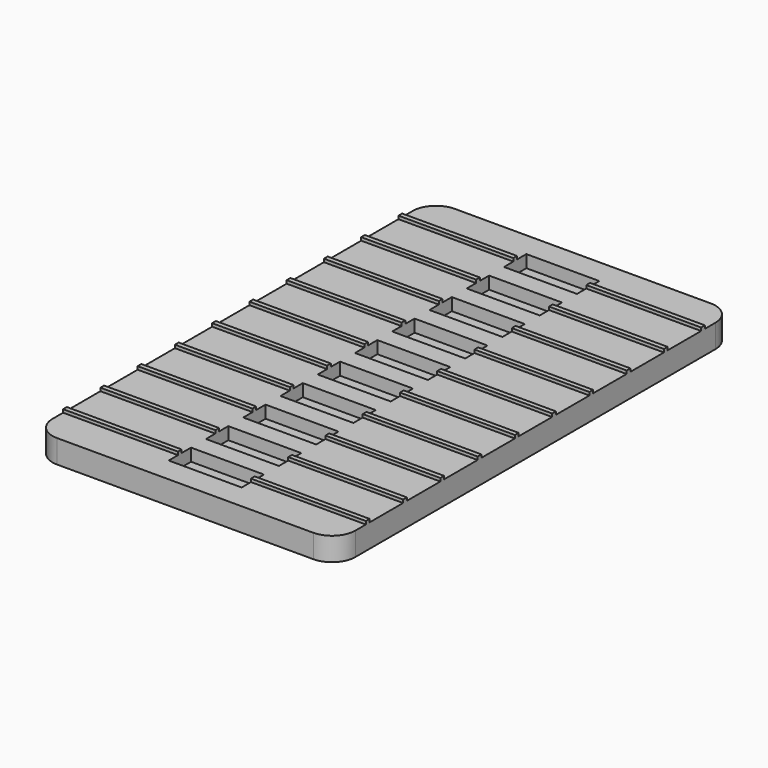
from build123d import *

# Parameters (mm, degrees)
F0_W     = 49.53
F0_H     = 81.28
F1_DEPTH = 3.81
F2_W     = 11.938
F2_H     = 4.572
F3_DEPTH = 2.032
F4_W     = 18.796
F4_H     = 0.762
F5_DEPTH = 0.508
F6_R     = 3.81


with BuildPart() as f1:
    # F0 (on Top) → F1 (new body)
    with BuildSketch(Plane.XY):
        with Locations((24.765, 40.64)):
            Rectangle(F0_W, F0_H)
    extrude(amount=F1_DEPTH)

    # F2 (on face) → F3 (cut)
    with BuildSketch(Plane.XY.offset(3.81)):
        with Locations((24.765, 6.35)):
            Rectangle(F2_W, F2_H)
        with Locations((24.765, 13.97)):
            Rectangle(F2_W, F2_H)
        with Locations((24.765, 21.59)):
            Rectangle(F2_W, F2_H)
        with Locations((24.765, 29.21)):
            Rectangle(F2_W, F2_H)
        with Locations((24.765, 36.83)):
            Rectangle(F2_W, F2_H)
        with Locations((24.765, 44.45)):
            Rectangle(F2_W, F2_H)
        with Locations((24.765, 52.07)):
            Rectangle(F2_W, F2_H)
        with Locations((24.765, 59.69)):
            Rectangle(F2_W, F2_H)
        with Locations((24.765, 67.31)):
            Rectangle(F2_W, F2_H)
        with Locations((24.765, 74.93)):
            Rectangle(F2_W, F2_H)
    extrude(amount=-F3_DEPTH, mode=Mode.SUBTRACT)

    # F4 (on face) → F5 (join)
    with BuildSketch(Plane.XY.offset(3.81)):
        with Locations((40.132, 6.35)):
            Rectangle(F4_W, F4_H)
        with Locations((9.398, 6.35)):
            Rectangle(F4_W, F4_H)
        with Locations((9.398, 13.97)):
            Rectangle(F4_W, F4_H)
        with Locations((40.132, 13.97)):
            Rectangle(F4_W, F4_H)
        with Locations((9.398, 21.59)):
            Rectangle(F4_W, F4_H)
        with Locations((40.132, 21.59)):
            Rectangle(F4_W, F4_H)
        with Locations((9.398, 29.21)):
            Rectangle(F4_W, F4_H)
        with Locations((40.132, 29.21)):
            Rectangle(F4_W, F4_H)
        with Locations((9.398, 36.83)):
            Rectangle(F4_W, F4_H)
        with Locations((40.132, 36.83)):
            Rectangle(F4_W, F4_H)
        with Locations((9.398, 44.45)):
            Rectangle(F4_W, F4_H)
        with Locations((40.132, 44.45)):
            Rectangle(F4_W, F4_H)
        with Locations((9.398, 52.07)):
            Rectangle(F4_W, F4_H)
        with Locations((40.132, 52.07)):
            Rectangle(F4_W, F4_H)
        with Locations((9.398, 59.69)):
            Rectangle(F4_W, F4_H)
        with Locations((40.132, 59.69)):
            Rectangle(F4_W, F4_H)
        with Locations((9.398, 67.31)):
            Rectangle(F4_W, F4_H)
        with Locations((40.132, 67.31)):
            Rectangle(F4_W, F4_H)
        with Locations((9.398, 74.93)):
            Rectangle(F4_W, F4_H)
        with Locations((40.132, 74.93)):
            Rectangle(F4_W, F4_H)
    extrude(amount=F5_DEPTH)

    # F6
    f6_edges = [f1.edges().sort_by_distance(p)[0] for p in [
        (49.53, 0, 1.905),
        (0, 0, 1.905),
        (0, 81.28, 1.905),
        (49.53, 81.28, 1.905),
    ]]
    fillet(f6_edges, radius=F6_R)


solid = f1.part
